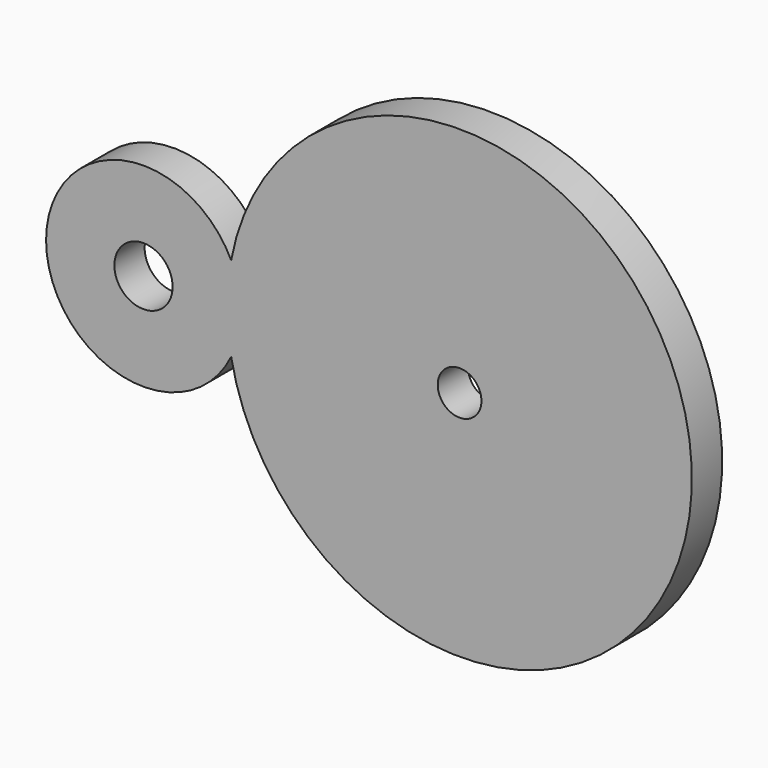
from build123d import *

# Parameters (mm, degrees)
F0_R     = 4
F0_R_2   = 3
F1_DEPTH = 5.2


with BuildPart() as f1:
    # F0 (on Front) → F1 (new body)
    with BuildSketch(Plane.XZ):
        with BuildLine():
            ThreePointArc((12.0373343894, -5.8303692677), (11.5, 0), (12.0373343894, 5.8303692677))
            ThreePointArc((12.0373343894, 5.8303692677), (-13.375, 0), (12.0373343894, -5.8303692677))
        make_face()
        Circle(F0_R, mode=Mode.SUBTRACT)
        with BuildLine():
            ThreePointArc((12.0373343894, -5.8303692677), (13.0362949579, -2.9909260725), (13.375, 0))
            ThreePointArc((13.375, 0), (13.0362949579, 2.9909260725), (12.0373343894, 5.8303692677))
            ThreePointArc((12.0373343894, 5.8303692677), (11.5, 0), (12.0373343894, -5.8303692677))
        make_face()
        with BuildLine():
            ThreePointArc((12.0373343894, -5.8303692677), (11.5, 0), (12.0373343894, 5.8303692677))
            ThreePointArc((12.0373343894, 5.8303692677), (-13.375, 0), (12.0373343894, -5.8303692677))
        make_face()
        Circle(F0_R, mode=Mode.SUBTRACT)
        with BuildLine():
            ThreePointArc((12.0373343894, 5.8303692677), (13.0362949579, 2.9909260725), (13.375, 0))
            ThreePointArc((13.375, 0), (13.0362949579, -2.9909260725), (12.0373343894, -5.8303692677))
            ThreePointArc((12.0373343894, -5.8303692677), (46.3275388146, -31.7653823602), (75.3, 0))
            ThreePointArc((75.3, 0), (46.3275388146, 31.7653823602), (12.0373343894, 5.8303692677))
        make_face()
        with Locations((43.4, 0)):
            Circle(F0_R_2, mode=Mode.SUBTRACT)
    extrude(amount=F1_DEPTH)


solid = f1.part
